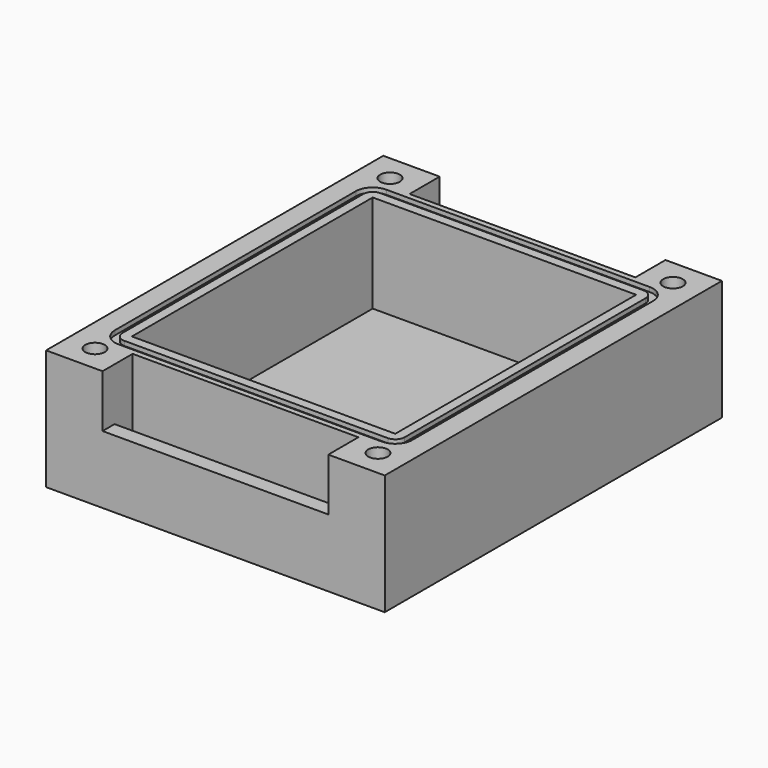
from build123d import *

# Parameters (mm, degrees)
F1_DEPTH  = 16
F2_W      = 17.5
F2_H      = 20
F3_DEPTH  = 13
F5_DEPTH  = 0.6
F7_DEPTH  = 1.6
F9_D      = 2.6
F10_W     = 15
F10_H     = 4.3693144321
F11_DEPTH = 7


with BuildPart() as f1:
    # F0 (on Top) → F1 (new body)
    with BuildSketch(Plane.XY):
        Polygon((15, 23), (0, 23), (0, 0), (22.5, 0), (22.5, 28), (0, 28), (0, 26), (15, 26), align=None)
    extrude(amount=F1_DEPTH)

    # F2 (on face) → F3 (cut)
    with BuildSketch(Plane.XY.offset(16)):
        with Locations((8.75, 10)):
            Rectangle(F2_W, F2_H)
    extrude(amount=-F3_DEPTH, mode=Mode.SUBTRACT)

    # F4 (on face) → F5 (cut)
    with BuildSketch(Plane.XY.offset(16)):
        with BuildLine():
            Line((17.5, 22.25), (0, 22.25))
            Line((0, 22.25), (0, 21.25))
            Line((0, 21.25), (17.5, 21.25))
            ThreePointArc((17.5, 21.25), (18.3838834765, 20.8838834765), (18.75, 20))
            Line((18.75, 20), (18.75, 0))
            Line((18.75, 0), (19.75, 0))
            Line((19.75, 0), (19.75, 20))
            ThreePointArc((19.75, 20), (19.0909902577, 21.5909902577), (17.5, 22.25))
        make_face()
    extrude(amount=-F5_DEPTH, mode=Mode.SUBTRACT)

    # F6 (on face) → F7 (cut)
    with BuildSketch(Plane(origin=(0, 0, 0), x_dir=(1, 0, 0), z_dir=(0, 0, -1))):
        Polygon((19.9547005384, -26.5), (21.1094010768, -24.5), (19.9547005384, -22.5), (17.6452994616, -22.5), (16.4905989232, -24.5), (17.6452994616, -26.5), align=None)
    extrude(amount=-F7_DEPTH, mode=Mode.SUBTRACT)

    # F9 (through all)
    with Locations(Plane(origin=(0, 0, 0), x_dir=(1, 0, 0), z_dir=(0, 0, -1))):
        with Locations((18.8, -24.5)):
            Hole(F9_D / 2)

    # F10 (on face) → F11 (cut)
    with BuildSketch(Plane.XY.offset(16)):
        with Locations((7.5, 28.1846572161)):
            Rectangle(F10_W, F10_H)
    extrude(amount=-F11_DEPTH, mode=Mode.SUBTRACT)

    # F12: F1 across plane


with BuildPart() as f1_1:
    add(f1.part)
    add(f1.part.mirror(Plane.YZ))

    # F13: F1 across plane


with BuildPart() as f1_2:
    add(f1_1.part)
    add(f1_1.part.mirror(Plane.XZ))


solid = f1_2.part
